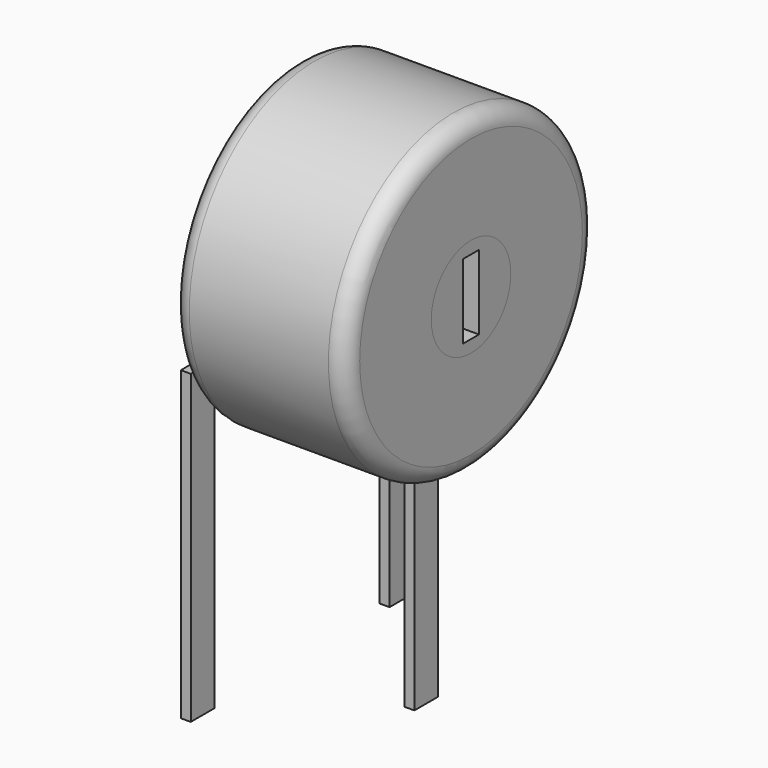
from build123d import *

# Parameters (mm, degrees)
SKETCH001_R       = 1
SKETCH001_W       = 0.4
SKETCH001_H       = 1.5
PAD001_DEPTH      = 3.5
SKETCH_R          = 3.15
SKETCH_R_2        = 1
PAD_DEPTH         = 3.5
FILLET_R          = 0.35
SKETCH003_W       = 0.2
SKETCH003_H       = 0.6
PAD002_DEPTH      = 3.166667
PAD002_DEPTH_BACK = 3


with BuildPart() as pad001:
    # Sketch001 → Pad001 (new body)
    with BuildSketch(Plane.YZ):
        with Locations((-2.5, 4.5)):
            Circle(SKETCH001_R)
        with Locations((-2.5, 4.5)):
            Rectangle(SKETCH001_W, SKETCH001_H, mode=Mode.SUBTRACT)
    extrude(amount=PAD001_DEPTH)


with BuildPart() as fillet_body:
    # Sketch → Pad (new body)
    with BuildSketch(Plane.YZ):
        with Locations((-2.5, 4.5)):
            Circle(SKETCH_R)
        with Locations((-2.5, 4.5)):
            Circle(SKETCH_R_2, mode=Mode.SUBTRACT)
    extrude(amount=PAD_DEPTH)

    # Fillet
    fillet_edges = [fillet_body.edges().sort_by_distance(p)[0] for p in [
        (0, -5.65, 4.5),
        (3.5, -5.65, 4.5),
    ]]
    fillet(fillet_edges, radius=FILLET_R)


with BuildPart() as pad002:
    # Sketch003 → Pad002 (new body, two sides)
    with BuildSketch(Plane.XY) as pad002_sk:
        Rectangle(SKETCH003_W, SKETCH003_H)
        with Locations((2.5, -2.5)):
            Rectangle(SKETCH003_W, SKETCH003_H)
        with Locations((0, -5)):
            Rectangle(SKETCH003_W, SKETCH003_H)
    extrude(amount=PAD002_DEPTH)
    extrude(pad002_sk.sketch, amount=-PAD002_DEPTH_BACK)


solid = Compound([pad001.part, fillet_body.part, pad002.part])
